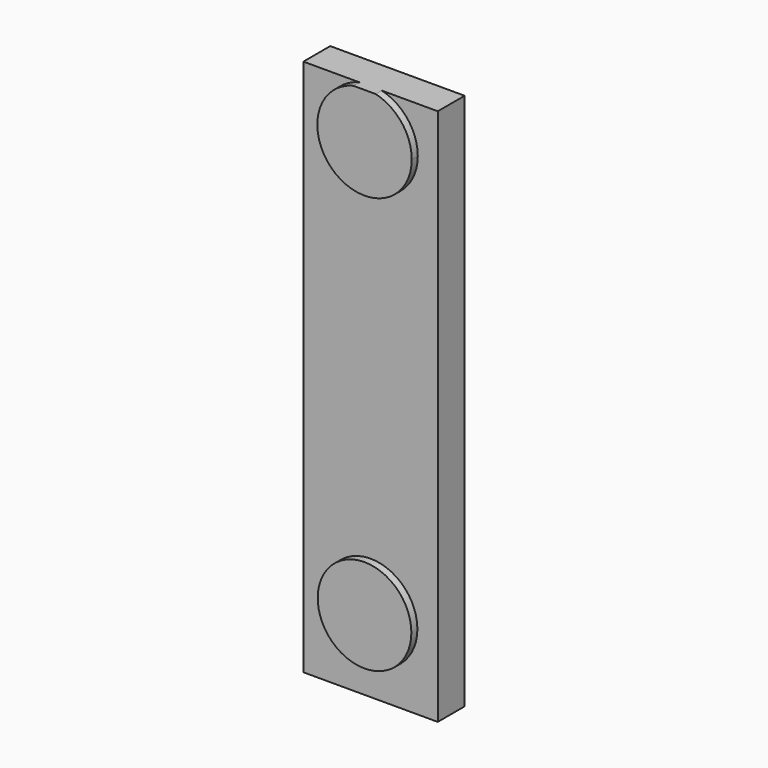
from build123d import *

# Parameters (mm, degrees)
F0_W     = 6.35
F0_H     = 25.4
F1_DEPTH = 1.5875
F2_R     = 2.21245533
F3_DEPTH = 0.3560978221


with BuildPart() as f1:
    # F0 (on Front) → F1 (new body)
    with BuildSketch(Plane.XZ):
        Rectangle(F0_W, F0_H)
    extrude(amount=F1_DEPTH)

    # F2 (on face) → F3 (join)
    with BuildSketch(Plane.XZ.offset(1.5875)):
        with Locations((0, -9.151885286)):
            Circle(F2_R)
        with BuildLine():
            ThreePointArc((-0.5292957498, 12.7), (-1.3777807408, 8.7779312566), (2.2310145846, 10.5326808989))
            ThreePointArc((2.2310145846, 10.5326808989), (1.7547496423, 11.9104616397), (0.5292957498, 12.7))
            Line((0.5292957498, 12.7), (-0.5292957498, 12.7))
        make_face()
    extrude(amount=F3_DEPTH)


solid = f1.part
